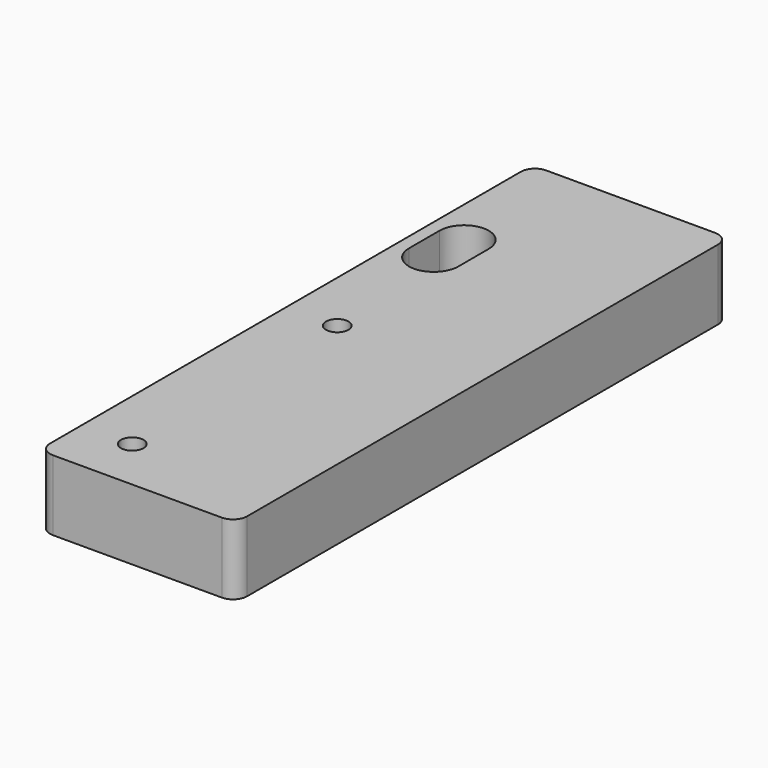
from build123d import *

# Parameters (mm, degrees)
F0_R     = 4
F1_DEPTH = 25


with BuildPart() as f1:
    # F0 (on Top) → F1 (new body)
    with BuildSketch(Plane.XY):
        with BuildLine():
            ThreePointArc((-35, -104.5), (-33.535534, -108.035534), (-30, -109.5))
            Line((-30, -109.5), (30, -109.5))
            ThreePointArc((30, -109.5), (33.535534, -108.035534), (35, -104.5))
            Line((35, -104.5), (35, 104.5))
            ThreePointArc((35, 104.5), (33.535534, 108.035534), (30, 109.5))
            Line((30, 109.5), (-30, 109.5))
            ThreePointArc((-30, 109.5), (-33.535534, 108.035534), (-35, 104.5))
            Line((-35, 104.5), (-35, -104.5))
        make_face()
        with Locations((-17, -90.5)):
            Circle(F0_R, mode=Mode.SUBTRACT)
        with Locations((-17, 0.5)):
            Circle(F0_R, mode=Mode.SUBTRACT)
        with BuildLine():
            ThreePointArc((-30.5, 62.75), (-21.75, 71.5), (-13, 62.75))
            Line((-13, 62.75), (-13, 49.25))
            ThreePointArc((-13, 49.25), (-21.75, 40.5), (-30.5, 49.25))
            Line((-30.5, 49.25), (-30.5, 62.75))
        make_face(mode=Mode.SUBTRACT)
    extrude(amount=F1_DEPTH)


solid = f1.part
